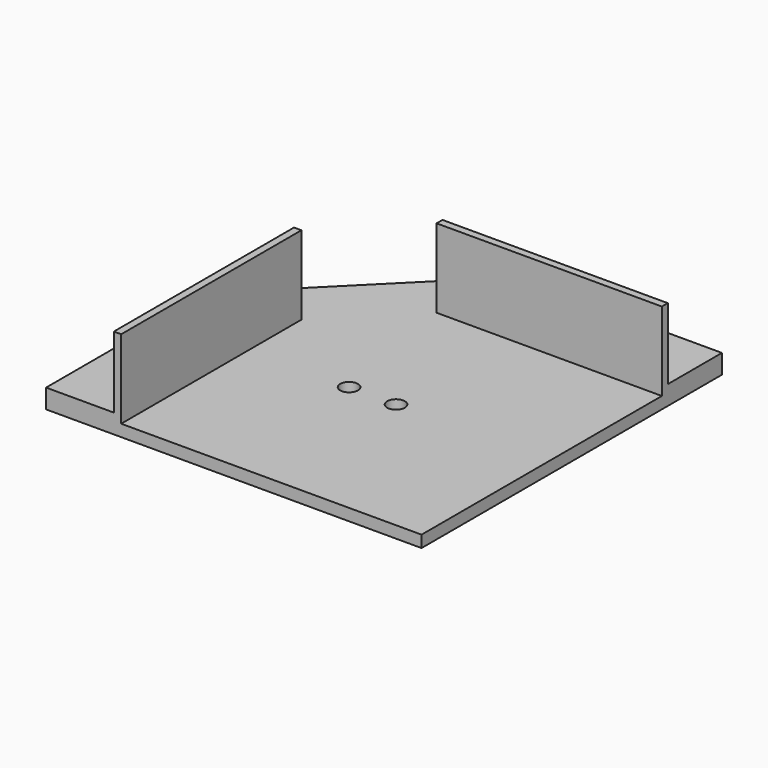
from build123d import *

# Parameters (mm, degrees)
F1_DEPTH  = 8
F2_W      = 152.4
F2_H      = 50.8
F2_W_2    = 50.8
F2_H_2    = 152.4
F3_DEPTH  = 5
F5_W      = 152.4
F5_H      = 5
F6_DEPTH  = 48.26
F7_R      = 6
F8_DEPTH  = 8
F9_R      = 6
F10_DEPTH = 8
F4_W      = 5
F4_H      = 152.4
F11_DEPTH = 48.26


with BuildPart() as f1:
    # F0 (on Top) → F1 (new body)
    with BuildSketch(Plane.XY):
        Polygon((-10.222614, 146.12082), (-111.822614, 44.52082), (-111.822614, -107.87918), (142.177386, -107.87918), (142.177386, 146.12082), align=None)
    extrude(amount=F1_DEPTH)

    # F2 (on face) → F3 (join)
    with BuildSketch(Plane.XY.offset(8)):
        with Locations((65.977386, 120.72082)):
            Rectangle(F2_W, F2_H)
        with Locations((-86.422614, -31.67918)):
            Rectangle(F2_W_2, F2_H_2)
    extrude(amount=F3_DEPTH)

    # F5 (on face) → F6 (join)
    with BuildSketch(Plane.XY.offset(13)):
        with Locations((65.977386, 97.82082)):
            Rectangle(F5_W, F5_H)
    extrude(amount=F6_DEPTH)

    # F7 (on face) → F8 (cut)
    with BuildSketch(Plane.XY.offset(8)):
        with Locations((6.839792, 0)):
            Circle(F7_R)
    extrude(amount=-F8_DEPTH, mode=Mode.SUBTRACT)

    # F9 (on face) → F10 (cut)
    with BuildSketch(Plane.XY.offset(8)):
        with Locations((38.607758, 0)):
            Circle(F9_R)
    extrude(amount=-F10_DEPTH, mode=Mode.SUBTRACT)

    # F4 (on face) → F11 (join)
    with BuildSketch(Plane.XY.offset(13)):
        with Locations((-63.522614, -31.67918)):
            Rectangle(F4_W, F4_H)
    extrude(amount=F11_DEPTH)


solid = f1.part
